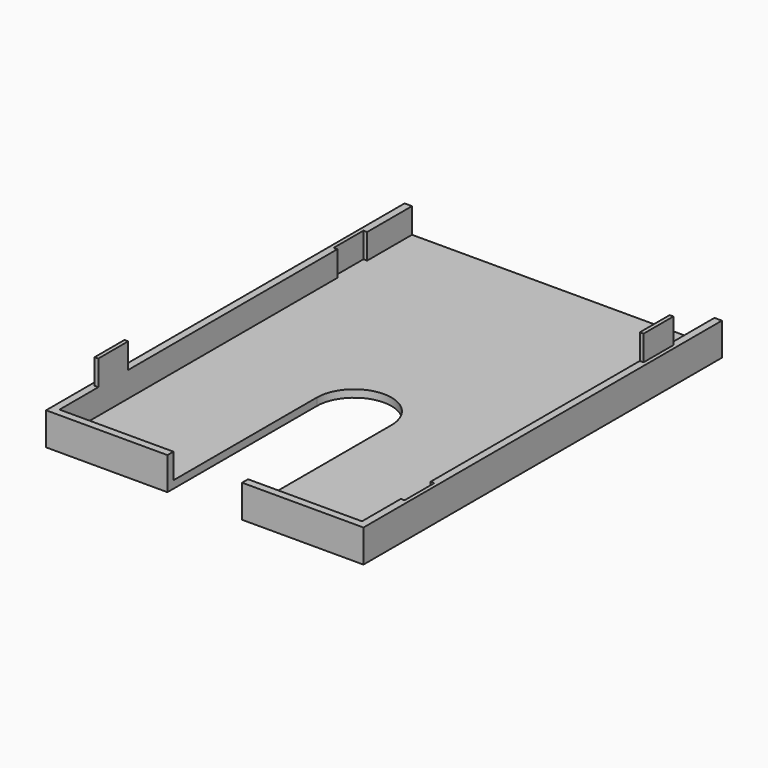
from build123d import *

# Parameters (mm, degrees)
F0_W      = 85
F0_H      = 120
F1_DEPTH  = 8.75
F2_W      = 81
F2_H      = 118
F3_DEPTH  = 6.75
F5_DEPTH  = 25
F6_W      = 1
F6_H      = 10
F7_DEPTH  = 6.75
F8_W      = 1
F8_H      = 10
F9_DEPTH  = 6.75
F10_W     = 1
F10_H     = 10
F11_DEPTH = 6.75
F12_W     = 1
F12_H     = 10
F13_DEPTH = 6.75


with BuildPart() as f1:
    # F0 (on Top) → F1 (new body)
    with BuildSketch(Plane.XY):
        Rectangle(F0_W, F0_H)
    extrude(amount=F1_DEPTH)

    # F2 (on face) → F3 (cut)
    with BuildSketch(Plane.XY.offset(8.75)):
        with Locations((0, 1)):
            Rectangle(F2_W, F2_H)
    extrude(amount=-F3_DEPTH, mode=Mode.SUBTRACT)

    # F4 (on face) → F5 (cut)
    with BuildSketch(Plane.XY.offset(8.75)):
        with BuildLine():
            Line((-10, -10), (-10, -60))
            Line((-10, -60), (10, -60))
            Line((10, -60), (10, -10))
            ThreePointArc((10, -10), (0, 0), (-10, -10))
        make_face()
    extrude(amount=-F5_DEPTH, mode=Mode.SUBTRACT)

    # F6 (on face) → F7 (cut)
    with BuildSketch(Plane.XY.offset(8.75)):
        with Locations((-41, 40)):
            Rectangle(F6_W, F6_H)
    extrude(amount=-F7_DEPTH, mode=Mode.SUBTRACT)

    # F8 (on face) → F9 (cut)
    with BuildSketch(Plane.XY.offset(8.75)):
        with Locations((41, -40)):
            Rectangle(F8_W, F8_H)
    extrude(amount=-F9_DEPTH, mode=Mode.SUBTRACT)

    # F10 (on face) → F11 (join)
    with BuildSketch(Plane.XY.offset(8.75)):
        with Locations((-41, -40)):
            Rectangle(F10_W, F10_H)
    extrude(amount=F11_DEPTH)

    # F12 (on face) → F13 (join)
    with BuildSketch(Plane.XY.offset(8.75)):
        with Locations((41, 40)):
            Rectangle(F12_W, F12_H)
    extrude(amount=F13_DEPTH)


solid = f1.part
